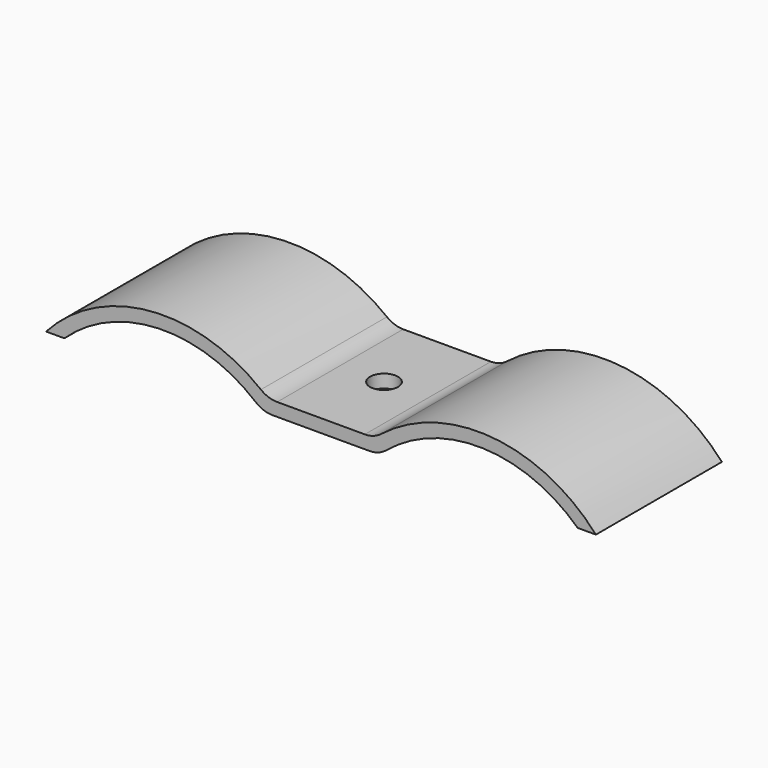
from build123d import *

# Parameters (mm, degrees)
F1_DEPTH = 19.05
F3_D     = 6.7564


with BuildPart() as f1:
    # F0 (on Front) → F1 (new body, symmetric)
    with BuildSketch(Plane.XZ):
        with BuildLine():
            ThreePointArc((-10.6036934298, 3.175), (-12.6822188343, 3.524813991), (-14.5317372256, 4.5357142857))
            ThreePointArc((-14.5317372256, 4.5357142857), (-41.41284158, 12.5556989221), (-66.4980633142, 0))
            Line((-66.4980633142, 0), (-62.070724332, 0))
            ThreePointArc((-62.070724332, 0), (-39.2051302246, 9.5075108277), (-15.7839355067, 1.4653846154))
            ThreePointArc((-15.7839355067, 1.4653846154), (-13.8834569853, 0.3775713612), (-11.7264692352, 0))
            Line((-11.7264692352, 0), (11.7264692352, 0))
            ThreePointArc((11.7264692352, 0), (13.8834569853, 0.3775713612), (15.7839355067, 1.4653846154))
            ThreePointArc((15.7839355067, 1.4653846154), (39.2051302246, 9.5075108277), (62.070724332, 0))
            Line((62.070724332, 0), (66.4980633142, 0))
            ThreePointArc((66.4980633142, 0), (41.41284158, 12.5556989221), (14.5317372256, 4.5357142857))
            ThreePointArc((14.5317372256, 4.5357142857), (12.6822188343, 3.524813991), (10.6036934298, 3.175))
            Line((10.6036934298, 3.175), (-10.6036934298, 3.175))
        make_face()
    extrude(amount=F1_DEPTH, both=True)

    # F3 (through all)
    with Locations(Plane.XY.offset(3.175)):
        with Locations((0, 0)):
            Hole(F3_D / 2)


solid = f1.part
